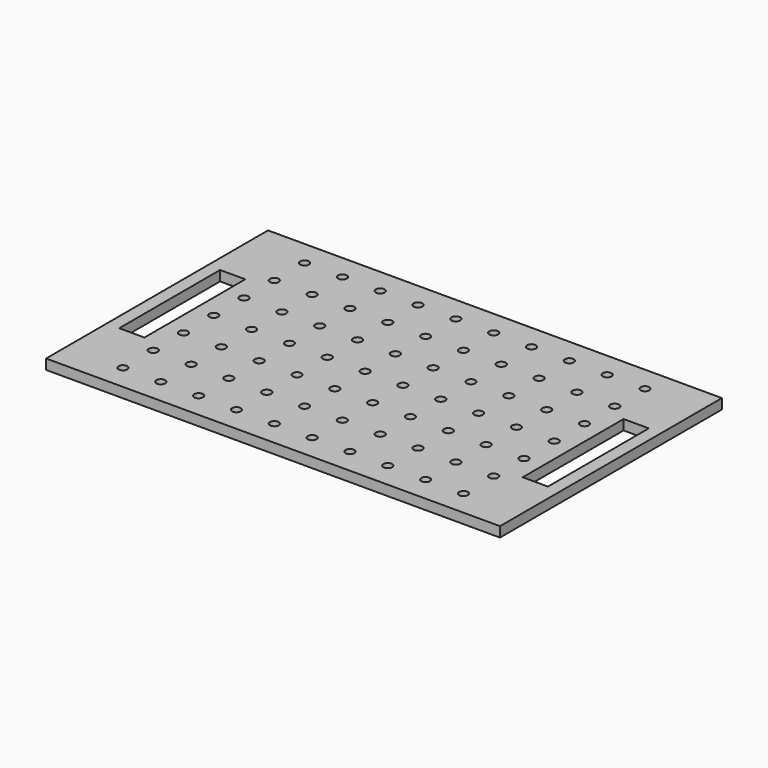
from build123d import *

# Parameters (mm, degrees)
F0_W     = 360
F0_H     = 220
F0_R     = 3.5
F0_W_2   = 20
F0_H_2   = 100
F1_DEPTH = 8


with BuildPart() as f1:
    # F0 (on Top) → F1 (new body)
    with BuildSketch(Plane.XY):
        Rectangle(F0_W, F0_H)
        with Locations((-135, -90)):
            Circle(F0_R, mode=Mode.SUBTRACT)
        with Locations((-105, -90)):
            Circle(F0_R, mode=Mode.SUBTRACT)
        with Locations((-135, -60)):
            Circle(F0_R, mode=Mode.SUBTRACT)
        with Locations((-105, -60)):
            Circle(F0_R, mode=Mode.SUBTRACT)
        with Locations((-75, -90)):
            Circle(F0_R, mode=Mode.SUBTRACT)
        with Locations((-45, -90)):
            Circle(F0_R, mode=Mode.SUBTRACT)
        with Locations((-15, -90)):
            Circle(F0_R, mode=Mode.SUBTRACT)
        with Locations((-75, -60)):
            Circle(F0_R, mode=Mode.SUBTRACT)
        with Locations((-45, -60)):
            Circle(F0_R, mode=Mode.SUBTRACT)
        with Locations((-15, -60)):
            Circle(F0_R, mode=Mode.SUBTRACT)
        with Locations((-135, -30)):
            Circle(F0_R, mode=Mode.SUBTRACT)
        with Locations((-105, -30)):
            Circle(F0_R, mode=Mode.SUBTRACT)
        with Locations((-75, -30)):
            Circle(F0_R, mode=Mode.SUBTRACT)
        with Locations((-45, -30)):
            Circle(F0_R, mode=Mode.SUBTRACT)
        with Locations((-15, -30)):
            Circle(F0_R, mode=Mode.SUBTRACT)
        with Locations((15, -90)):
            Circle(F0_R, mode=Mode.SUBTRACT)
        with Locations((45, -90)):
            Circle(F0_R, mode=Mode.SUBTRACT)
        with Locations((75, -90)):
            Circle(F0_R, mode=Mode.SUBTRACT)
        with Locations((15, -60)):
            Circle(F0_R, mode=Mode.SUBTRACT)
        with Locations((45, -60)):
            Circle(F0_R, mode=Mode.SUBTRACT)
        with Locations((75, -60)):
            Circle(F0_R, mode=Mode.SUBTRACT)
        with Locations((105, -90)):
            Circle(F0_R, mode=Mode.SUBTRACT)
        with Locations((135, -90)):
            Circle(F0_R, mode=Mode.SUBTRACT)
        with Locations((105, -60)):
            Circle(F0_R, mode=Mode.SUBTRACT)
        with Locations((135, -60)):
            Circle(F0_R, mode=Mode.SUBTRACT)
        with Locations((15, -30)):
            Circle(F0_R, mode=Mode.SUBTRACT)
        with Locations((45, -30)):
            Circle(F0_R, mode=Mode.SUBTRACT)
        with Locations((75, -30)):
            Circle(F0_R, mode=Mode.SUBTRACT)
        with Locations((105, -30)):
            Circle(F0_R, mode=Mode.SUBTRACT)
        with Locations((135, -30)):
            Circle(F0_R, mode=Mode.SUBTRACT)
        with Locations((-160, 0)):
            Rectangle(F0_W_2, F0_H_2, mode=Mode.SUBTRACT)
        with Locations((-135, 0)):
            Circle(F0_R, mode=Mode.SUBTRACT)
        with Locations((-105, 0)):
            Circle(F0_R, mode=Mode.SUBTRACT)
        with Locations((-135, 30)):
            Circle(F0_R, mode=Mode.SUBTRACT)
        with Locations((-105, 30)):
            Circle(F0_R, mode=Mode.SUBTRACT)
        with Locations((-75, 0)):
            Circle(F0_R, mode=Mode.SUBTRACT)
        with Locations((-45, 0)):
            Circle(F0_R, mode=Mode.SUBTRACT)
        with Locations((-15, 0)):
            Circle(F0_R, mode=Mode.SUBTRACT)
        with Locations((-75, 30)):
            Circle(F0_R, mode=Mode.SUBTRACT)
        with Locations((-45, 30)):
            Circle(F0_R, mode=Mode.SUBTRACT)
        with Locations((-15, 30)):
            Circle(F0_R, mode=Mode.SUBTRACT)
        with Locations((-135, 60)):
            Circle(F0_R, mode=Mode.SUBTRACT)
        with Locations((-105, 60)):
            Circle(F0_R, mode=Mode.SUBTRACT)
        with Locations((-135, 90)):
            Circle(F0_R, mode=Mode.SUBTRACT)
        with Locations((-105, 90)):
            Circle(F0_R, mode=Mode.SUBTRACT)
        with Locations((-75, 60)):
            Circle(F0_R, mode=Mode.SUBTRACT)
        with Locations((-45, 60)):
            Circle(F0_R, mode=Mode.SUBTRACT)
        with Locations((-15, 60)):
            Circle(F0_R, mode=Mode.SUBTRACT)
        with Locations((-75, 90)):
            Circle(F0_R, mode=Mode.SUBTRACT)
        with Locations((-45, 90)):
            Circle(F0_R, mode=Mode.SUBTRACT)
        with Locations((-15, 90)):
            Circle(F0_R, mode=Mode.SUBTRACT)
        with Locations((15, 0)):
            Circle(F0_R, mode=Mode.SUBTRACT)
        with Locations((45, 0)):
            Circle(F0_R, mode=Mode.SUBTRACT)
        with Locations((75, 0)):
            Circle(F0_R, mode=Mode.SUBTRACT)
        with Locations((15, 30)):
            Circle(F0_R, mode=Mode.SUBTRACT)
        with Locations((45, 30)):
            Circle(F0_R, mode=Mode.SUBTRACT)
        with Locations((75, 30)):
            Circle(F0_R, mode=Mode.SUBTRACT)
        with Locations((105, 0)):
            Circle(F0_R, mode=Mode.SUBTRACT)
        with Locations((135, 0)):
            Circle(F0_R, mode=Mode.SUBTRACT)
        with Locations((160, 0)):
            Rectangle(F0_W_2, F0_H_2, mode=Mode.SUBTRACT)
        with Locations((105, 30)):
            Circle(F0_R, mode=Mode.SUBTRACT)
        with Locations((135, 30)):
            Circle(F0_R, mode=Mode.SUBTRACT)
        with Locations((15, 60)):
            Circle(F0_R, mode=Mode.SUBTRACT)
        with Locations((45, 60)):
            Circle(F0_R, mode=Mode.SUBTRACT)
        with Locations((75, 60)):
            Circle(F0_R, mode=Mode.SUBTRACT)
        with Locations((15, 90)):
            Circle(F0_R, mode=Mode.SUBTRACT)
        with Locations((45, 90)):
            Circle(F0_R, mode=Mode.SUBTRACT)
        with Locations((75, 90)):
            Circle(F0_R, mode=Mode.SUBTRACT)
        with Locations((105, 60)):
            Circle(F0_R, mode=Mode.SUBTRACT)
        with Locations((135, 60)):
            Circle(F0_R, mode=Mode.SUBTRACT)
        with Locations((105, 90)):
            Circle(F0_R, mode=Mode.SUBTRACT)
        with Locations((135, 90)):
            Circle(F0_R, mode=Mode.SUBTRACT)
    extrude(amount=F1_DEPTH)


solid = f1.part
